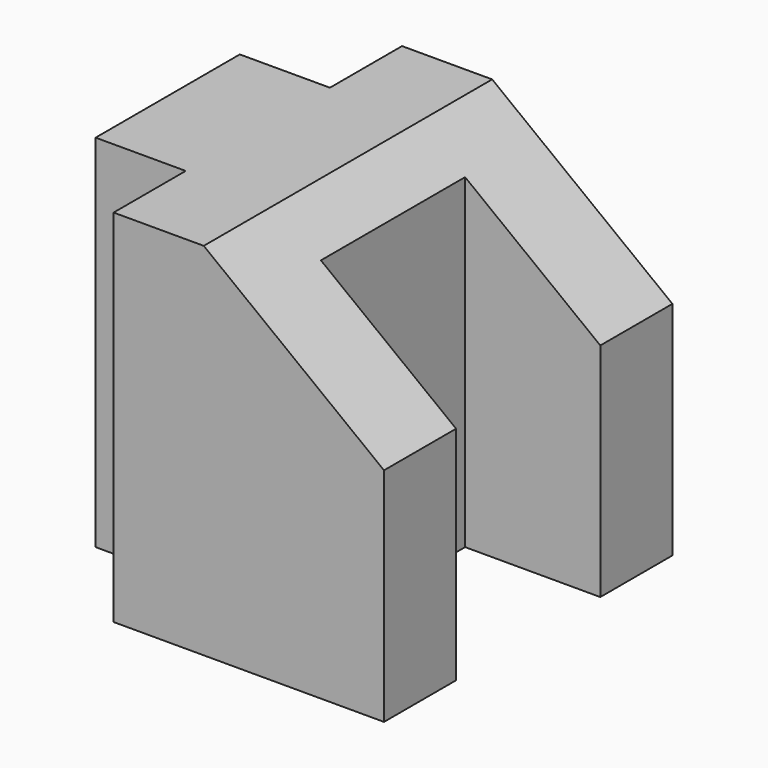
from build123d import *

# Parameters (mm, degrees)
F1_DEPTH = 50.8
F2_W     = 12.7
F2_H     = 12.7
F3_DEPTH = 50.801
F4_W     = 19.05
F4_H     = 25.4
F5_DEPTH = 50.801


with BuildPart() as f1:
    # F0 (on Front) → F1 (new body)
    with BuildSketch(Plane.XZ):
        Polygon((25.4, 50.8), (0, 50.8), (0, 0), (50.8, 0), (50.8, 31.212713), align=None)
    extrude(amount=F1_DEPTH)

    # F2 (on face) → F3 (cut, through all)
    with BuildSketch(Plane.XY.offset(50.8)):
        with Locations((6.35, -6.35)):
            Rectangle(F2_W, F2_H)
        with Locations((6.35, -44.45)):
            Rectangle(F2_W, F2_H)
    extrude(amount=-F3_DEPTH, mode=Mode.SUBTRACT)

    # F4 (on face) → F5 (cut, through all)
    with BuildSketch(Plane(origin=(0, 0, 0), x_dir=(1, 0, 0), z_dir=(0, 0, -1))):
        with Locations((41.275, 25.4)):
            Rectangle(F4_W, F4_H)
    extrude(amount=-F5_DEPTH, mode=Mode.SUBTRACT)


solid = f1.part
